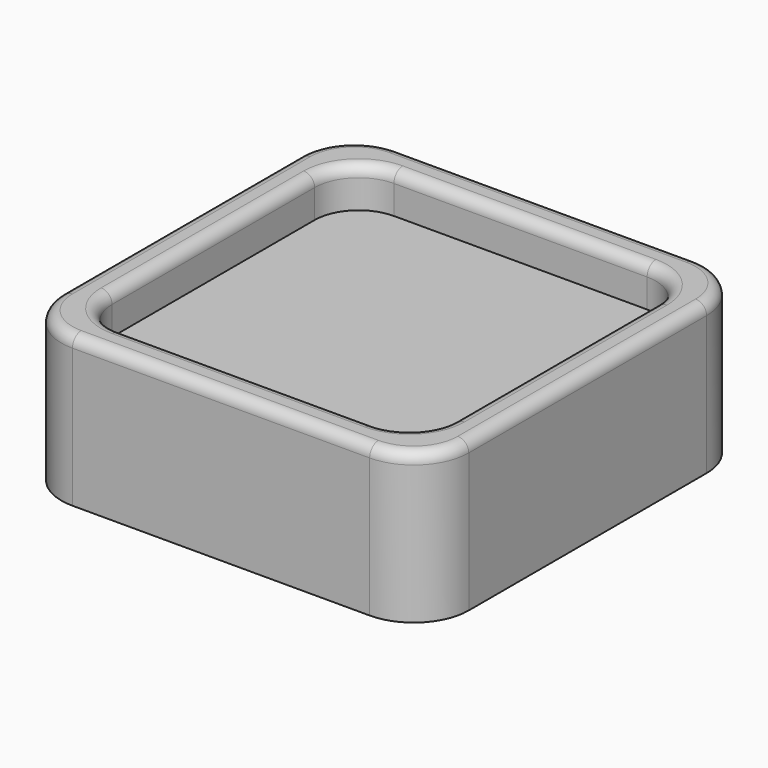
from build123d import *

# Parameters (mm, degrees)
F1_DEPTH = 50
F2_DEPTH = 680
F3_R     = 50
F4_DEPTH = 500


with BuildPart() as f1:
    # F0 (on Top) → F1 (new body)
    with BuildSketch(Plane.XY):
        with BuildLine():
            ThreePointArc((-925, -675), (-851.7766952966, -851.7766952966), (-675, -925))
            Line((-675, -925), (675, -925))
            ThreePointArc((675, -925), (851.7766952966, -851.7766952966), (925, -675))
            Line((925, -675), (925, 675))
            ThreePointArc((925, 675), (851.7766952966, 851.7766952966), (675, 925))
            Line((675, 925), (-675, 925))
            ThreePointArc((-675, 925), (-851.7766952966, 851.7766952966), (-925, 675))
            Line((-925, 675), (-925, -675))
        make_face()
        with BuildLine():
            Line((575, -775), (-575, -775))
            ThreePointArc((-575, -775), (-716.4213562373, -716.4213562373), (-775, -575))
            Line((-775, -575), (-775, 575))
            ThreePointArc((-775, 575), (-716.4213562373, 716.4213562373), (-575, 775))
            Line((-575, 775), (575, 775))
            ThreePointArc((575, 775), (716.4213562373, 716.4213562373), (775, 575))
            Line((775, 575), (775, -575))
            ThreePointArc((775, -575), (716.4213562373, -716.4213562373), (575, -775))
        make_face(mode=Mode.SUBTRACT)
        with BuildLine():
            ThreePointArc((-775, -575), (-716.4213562373, -716.4213562373), (-575, -775))
            Line((-575, -775), (575, -775))
            ThreePointArc((575, -775), (716.4213562373, -716.4213562373), (775, -575))
            Line((775, -575), (775, 575))
            ThreePointArc((775, 575), (716.4213562373, 716.4213562373), (575, 775))
            Line((575, 775), (-575, 775))
            ThreePointArc((-575, 775), (-716.4213562373, 716.4213562373), (-775, 575))
            Line((-775, 575), (-775, -575))
        make_face()
    extrude(amount=F1_DEPTH)

    # F0 (on Top) → F2 (join)
    with BuildSketch(Plane.XY):
        with BuildLine():
            ThreePointArc((-925, -675), (-851.7766952966, -851.7766952966), (-675, -925))
            Line((-675, -925), (675, -925))
            ThreePointArc((675, -925), (851.7766952966, -851.7766952966), (925, -675))
            Line((925, -675), (925, 675))
            ThreePointArc((925, 675), (851.7766952966, 851.7766952966), (675, 925))
            Line((675, 925), (-675, 925))
            ThreePointArc((-675, 925), (-851.7766952966, 851.7766952966), (-925, 675))
            Line((-925, 675), (-925, -675))
        make_face()
        with BuildLine():
            Line((575, -775), (-575, -775))
            ThreePointArc((-575, -775), (-716.4213562373, -716.4213562373), (-775, -575))
            Line((-775, -575), (-775, 575))
            ThreePointArc((-775, 575), (-716.4213562373, 716.4213562373), (-575, 775))
            Line((-575, 775), (575, 775))
            ThreePointArc((575, 775), (716.4213562373, 716.4213562373), (775, 575))
            Line((775, 575), (775, -575))
            ThreePointArc((775, -575), (716.4213562373, -716.4213562373), (575, -775))
        make_face(mode=Mode.SUBTRACT)
    extrude(amount=F2_DEPTH)

    # F3
    f3_edges = [f1.edges().sort_by_distance(p)[0] for p in [
        (-851.776695, -851.776695, 680),
        (0, -925, 680),
        (851.776695, -851.776695, 680),
        (925, 0, 680),
        (851.776695, 851.776695, 680),
        (0, 925, 680),
        (-851.776695, 851.776695, 680),
        (-925, 0, 680),
        (0, -775, 680),
        (-716.421356, -716.421356, 680),
        (-775, 0, 680),
        (-716.421356, 716.421356, 680),
        (0, 775, 680),
        (716.421356, 716.421356, 680),
        (775, 0, 680),
        (716.421356, -716.421356, 680),
        (-716.421356, -716.421356, 50),
        (-775, 0, 50),
        (-716.421356, 716.421356, 50),
        (0, 775, 50),
        (716.421356, 716.421356, 50),
        (775, 0, 50),
        (716.421356, -716.421356, 50),
        (0, -775, 50),
    ]]
    fillet(f3_edges, radius=F3_R)


with BuildPart() as f4:
    # F0 (on Top) → F4 (new body)
    with BuildSketch(Plane.XY):
        with BuildLine():
            ThreePointArc((-775, -575), (-716.4213562373, -716.4213562373), (-575, -775))
            Line((-575, -775), (575, -775))
            ThreePointArc((575, -775), (716.4213562373, -716.4213562373), (775, -575))
            Line((775, -575), (775, 575))
            ThreePointArc((775, 575), (716.4213562373, 716.4213562373), (575, 775))
            Line((575, 775), (-575, 775))
            ThreePointArc((-575, 775), (-716.4213562373, 716.4213562373), (-775, 575))
            Line((-775, 575), (-775, -575))
        make_face()
    extrude(amount=F4_DEPTH)


solid = Compound([f1.part, f4.part])
